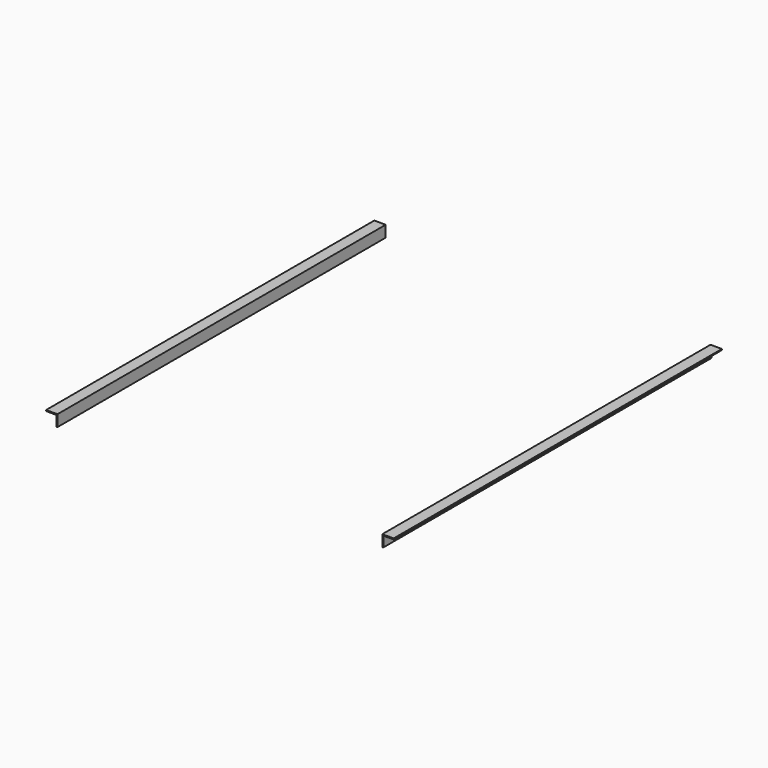
from build123d import *

# Parameters (mm, degrees)
F0_W     = 4.445
F0_H     = 46.355
F0_H_2   = 4.445
F0_W_2   = 46.355
F1_DEPTH = 1828.8


with BuildPart() as f1:
    # F0 (on Front) → F1 (new body)
    with BuildSketch(Plane.XZ):
        with Locations((-726.1225, -4.216205)):
            Rectangle(F0_W, F0_H)
        with Locations((-726.1225, 21.183795)):
            Rectangle(F0_W, F0_H_2)
        with Locations((-751.5225, 21.183795)):
            Rectangle(F0_W_2, F0_H_2)
        with Locations((726.1225, 21.183795)):
            Rectangle(F0_W, F0_H_2)
        with Locations((751.5225, 21.183795)):
            Rectangle(F0_W_2, F0_H_2)
        with Locations((726.1225, -4.216205)):
            Rectangle(F0_W, F0_H)
    extrude(amount=F1_DEPTH)


solid = f1.part
